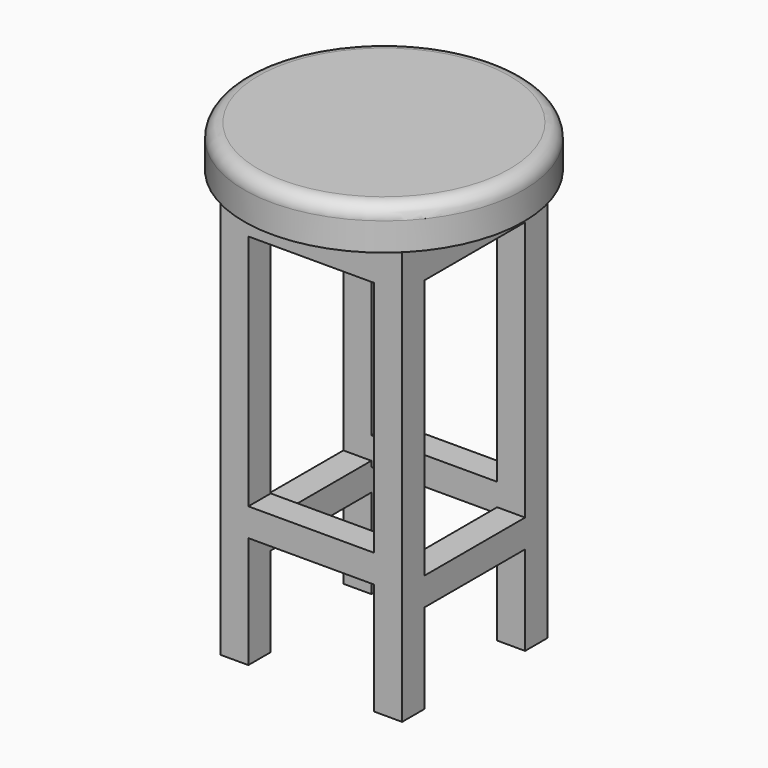
from build123d import *

# Parameters (mm, degrees)
F0_R      = 50
F1_DEPTH  = 15
F2_W      = 45
F2_H      = 7.5
F2_W_2    = 7.5
F2_H_2    = 45
F3_DEPTH  = 15
F5_DEPTH  = 150
F6_W      = 45
F6_H      = 10
F7_DEPTH  = 10
F8_W      = 45
F8_H      = 10
F9_DEPTH  = 10
F10_W     = 45
F10_H     = 10
F11_DEPTH = 10
F12_W     = 45
F12_H     = 10
F13_DEPTH = 10
F14_R     = 5


with BuildPart() as f1:
    # F0 (on Top) → F1 (new body)
    with BuildSketch(Plane.XY):
        Circle(F0_R)
    extrude(amount=F1_DEPTH)

    # F2 (on face) → F3 (join)
    with BuildSketch(Plane(origin=(0, 0, 0), x_dir=(1, 0, 0), z_dir=(0, 0, -1))):
        with Locations((0, 28.75)):
            Rectangle(F2_W, F2_H)
        with Locations((-28.75, 0)):
            Rectangle(F2_W_2, F2_H_2)
        with Locations((28.75, 0)):
            Rectangle(F2_W_2, F2_H_2)
        with Locations((0, -28.75)):
            Rectangle(F2_W, F2_H)
    extrude(amount=F3_DEPTH)

    # F4 (on face) → F5 (join)
    with BuildSketch(Plane(origin=(0, 0, 0), x_dir=(1, 0, 0), z_dir=(0, 0, -1))):
        Polygon((-25, -22.5), (-32.5, -22.5), (-32.5, -32.5), (-22.5, -32.5), (-22.5, -25), (-22.5, -22.5), align=None)
        Polygon((-22.5, 32.5), (-32.5, 32.5), (-32.5, 22.5), (-25, 22.5), (-22.5, 22.5), (-22.5, 25), align=None)
        Polygon((32.5, 32.5), (22.5, 32.5), (22.5, 25), (22.5, 22.5), (25, 22.5), (32.5, 22.5), align=None)
        Polygon((32.5, -32.5), (32.5, -22.5), (25, -22.5), (22.5, -22.5), (22.5, -25), (22.5, -32.5), align=None)
    extrude(amount=F5_DEPTH)

    # F6 (on face) → F7 (join)
    with BuildSketch(Plane.XZ.offset(32.5)):
        with Locations((0, -105)):
            Rectangle(F6_W, F6_H)
    extrude(amount=-F7_DEPTH)

    # F8 (on face) → F9 (join)
    with BuildSketch(Plane(origin=(0, 32.5, 0), x_dir=(-1, 0, 0), z_dir=(0, 1, 0))):
        with Locations((0, -105)):
            Rectangle(F8_W, F8_H)
    extrude(amount=-F9_DEPTH)

    # F10 (on face) → F11 (join)
    with BuildSketch(Plane(origin=(-32.5, 0, 0), x_dir=(0, -1, 0), z_dir=(-1, 0, 0))):
        with Locations((0, -113)):
            Rectangle(F10_W, F10_H)
    extrude(amount=-F11_DEPTH)

    # F12 (on face) → F13 (join)
    with BuildSketch(Plane.YZ.offset(32.5)):
        with Locations((0, -113)):
            Rectangle(F12_W, F12_H)
    extrude(amount=-F13_DEPTH)

    # F14
    f14_edges = [f1.edges().sort_by_distance(p)[0] for p in [
        (-50, 0, 15),
    ]]
    fillet(f14_edges, radius=F14_R)


solid = f1.part
